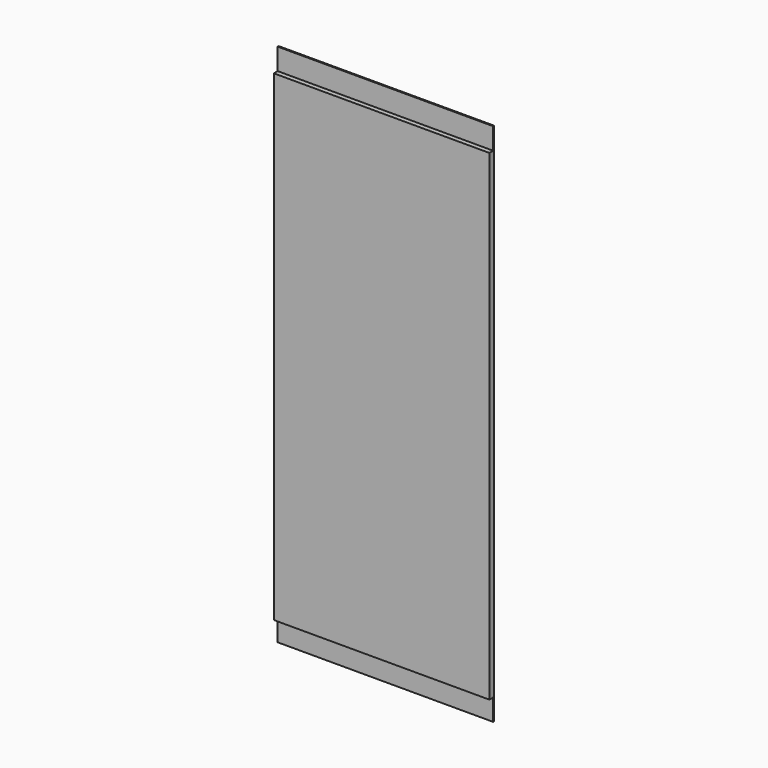
from build123d import *

# Parameters (mm, degrees)
F0_W     = 900
F0_H     = 2010
F1_DEPTH = 25
F0_H_2   = 90
F2_DEPTH = 5


with BuildPart() as f1:
    # F0 (on Front) → F1 (new body)
    with BuildSketch(Plane.XZ):
        with Locations((450, -1005)):
            Rectangle(F0_W, F0_H)
    extrude(amount=F1_DEPTH)

    # F0 (on Front) → F2 (join)
    with BuildSketch(Plane.XZ):
        with Locations((450, 45)):
            Rectangle(F0_W, F0_H_2)
        with Locations((450, -2055)):
            Rectangle(F0_W, F0_H_2)
    extrude(amount=F2_DEPTH)


solid = f1.part
